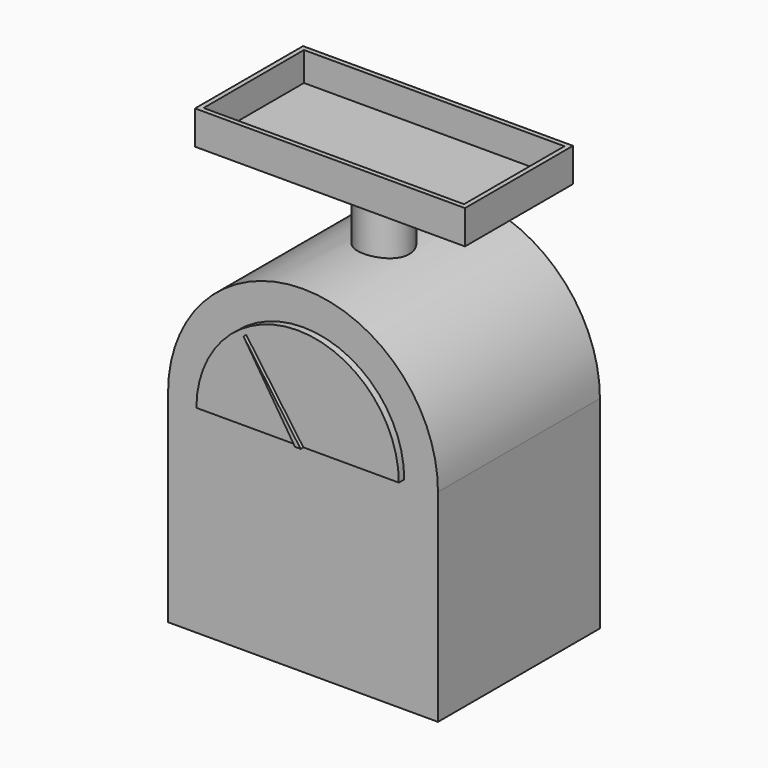
from build123d import *

# Parameters (mm, degrees)
F1_DEPTH = 76.2
F3_DEPTH = 2.54
F5_DEPTH = 1.27
F6_R     = 9.525
F7_DEPTH = 152.4
F8_W     = 101.6
F8_H     = 50.8
F8_R     = 9.525
F9_DEPTH = 12.7
F10_T    = -1.778


with BuildPart() as f1:
    # F0 (on Front) → F1 (new body)
    with BuildSketch(Plane.XZ):
        with BuildLine():
            Line((-50.8, 76.2), (-50.8, 0))
            Line((-50.8, 0), (50.8, 0))
            Line((50.8, 0), (50.8, 76.2))
            ThreePointArc((50.8, 76.2), (0, 127), (-50.8, 76.2))
        make_face()
    extrude(amount=F1_DEPTH)

    # F6 (on Top) → F7 (join)
    with BuildSketch(Plane.XY):
        with Locations((0, -38.1)):
            Circle(F6_R)
    extrude(amount=F7_DEPTH)


with BuildPart() as f3:
    # F2 (on face) → F3 (new body)
    with BuildSketch(Plane.XZ.offset(76.2)):
        with BuildLine():
            ThreePointArc((38.1, 76.2), (0, 114.3), (-38.1, 76.2))
            Line((-38.1, 76.2), (38.1, 76.2))
        make_face()
    extrude(amount=F3_DEPTH)


with BuildPart() as f5:
    # F4 (on face) → F5 (new body)
    with BuildSketch(Plane.XZ.offset(78.74)):
        Polygon((-19.35011, 106.478661), (0, 76.2), (2.154625, 76.2), align=None)
    extrude(amount=F5_DEPTH)


with BuildPart() as f9:
    # F8 (on face) → F9 (new body)
    with BuildSketch(Plane.XY.offset(152.4)):
        with Locations((0, -38.1)):
            Rectangle(F8_W, F8_H)
        with Locations((0, -38.1)):
            Circle(F8_R, mode=Mode.SUBTRACT)
        with Locations((0, -38.1)):
            Circle(F8_R)
    extrude(amount=F9_DEPTH)

    # F10
    f10_openings = [f9.faces().sort_by_distance(p)[0] for p in [
        (0, -38.1, 165.1),
    ]]
    offset(amount=F10_T, openings=f10_openings)


solid = Compound([f1.part, f3.part, f5.part, f9.part])
